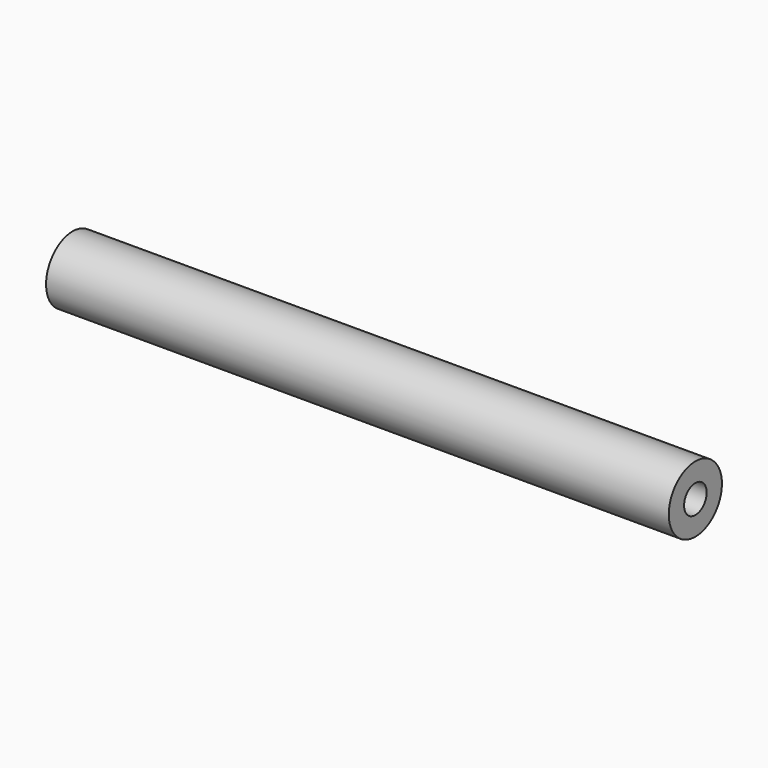
from build123d import *

# Parameters (mm, degrees)
F3_D     = 5
F3_DEPTH = 15
F3_TIP   = 1.5021515476
F5_D     = 6.8
F5_DEPTH = 20
F5_TIP   = 2.0429261047


with BuildPart() as f1:
    # F0 (on Front) → F1 (revolve)
    with BuildSketch(Plane.XZ):
        with BuildLine():
            Line((-75.2020410289, 0), (75.2020410289, 0))
            Line((75.2020410289, 0), (75.2020410289, 8))
            Line((75.2020410289, 8), (-74.7979589711, 8))
            ThreePointArc((-74.7979589711, 8), (-75.100764089, 6.0101792401), (-75.2020410289, 4))
            Line((-75.2020410289, 4), (-75.2020410289, 0))
        make_face()
    revolve(axis=Axis((-20.4167328775, 0, 0), (1, 0, 0)))

    # F3
    with Locations(Plane(origin=(-75.2020410289, 0, 0), x_dir=(0, -1, 0), z_dir=(-1, 0, 0))):
        with Locations((0, 0)):
            Hole(F3_D / 2, depth=F3_DEPTH)
            with Locations((0, 0, -(F3_DEPTH + F3_TIP / 2))):  # 118° drill point
                Cone(0, F3_D / 2, F3_TIP, mode=Mode.SUBTRACT)

    # F5
    with Locations(Plane.YZ.offset(75.2020410289)):
        with Locations((0, 0)):
            Hole(F5_D / 2, depth=F5_DEPTH)
            with Locations((0, 0, -(F5_DEPTH + F5_TIP / 2))):  # 118° drill point
                Cone(0, F5_D / 2, F5_TIP, mode=Mode.SUBTRACT)


solid = f1.part
